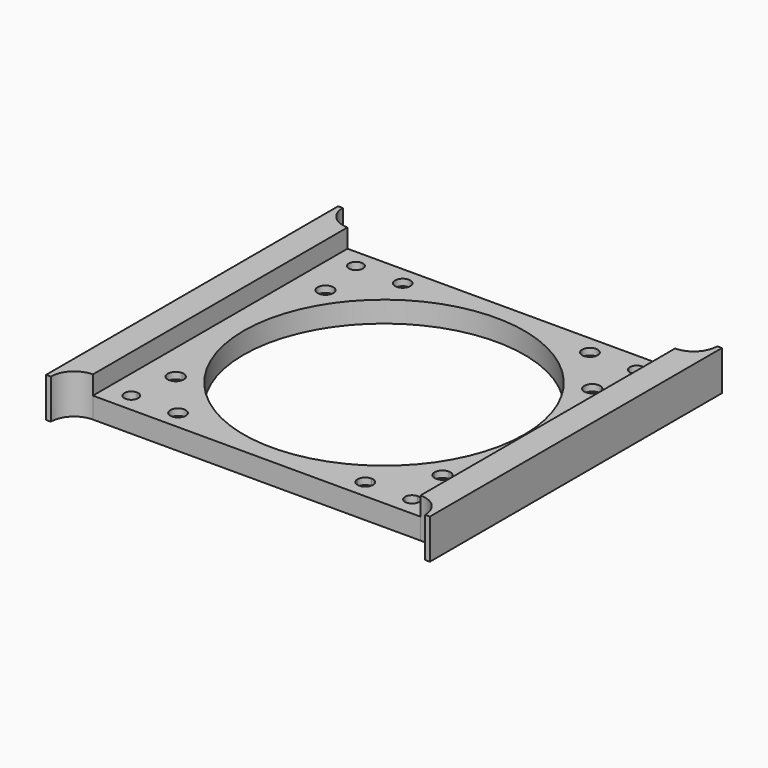
from build123d import *

# Parameters (mm, degrees)
F1_DEPTH  = 8.5
F2_W      = 70
F2_H      = 68
F2_R      = 30
F3_DEPTH  = 4
F5_DEPTH  = 25
F6_R      = 3.2
F6_R_2    = 1.7
F7_DEPTH  = 3.1
F8_R      = 1.65
F9_DEPTH  = 25
F10_R     = 3.15
F11_DEPTH = 3.1
F13_DEPTH = 25


with BuildPart() as f1:
    # F0 (on Top) → F1 (new body)
    with BuildSketch(Plane.XY):
        with BuildLine():
            Line((0, 78), (0, 39))
            Line((0, 39), (11, 39))
            ThreePointArc((11, 39), (41, 69), (71, 39))
            Line((71, 39), (82, 39))
            Line((82, 39), (82, 78))
            Line((82, 78), (81, 78))
            ThreePointArc((81, 78), (79.535534, 74.464466), (76, 73))
            Line((76, 73), (6, 73))
            ThreePointArc((6, 73), (2.464466, 74.464466), (1, 78))
            Line((1, 78), (0, 78))
        make_face()
        with BuildLine():
            Line((0, 39), (0, 0))
            Line((0, 0), (1, 0))
            ThreePointArc((1, 0), (2.464466, 3.535534), (6, 5))
            Line((6, 5), (76, 5))
            ThreePointArc((76, 5), (79.535534, 3.535534), (81, 0))
            Line((81, 0), (82, 0))
            Line((82, 0), (82, 39))
            Line((82, 39), (71, 39))
            ThreePointArc((71, 39), (41, 9), (11, 39))
            Line((11, 39), (0, 39))
        make_face()
    extrude(amount=F1_DEPTH)

    # F2 (on face) → F3 (cut)
    with BuildSketch(Plane.XY.offset(8.5)):
        with Locations((41, 39)):
            Rectangle(F2_W, F2_H)
        with Locations((41, 39)):
            Circle(F2_R, mode=Mode.SUBTRACT)
    extrude(amount=-F3_DEPTH, mode=Mode.SUBTRACT)

    # F4 (on face) → F5 (cut)
    with BuildSketch(Plane(origin=(0, 0, 0), x_dir=(1, 0, 0), z_dir=(0, 0, -1))):
        with BuildLine():
            ThreePointArc((14.2, -19), (11.297918, -17.797918), (12.5, -20.7))
            ThreePointArc((12.5, -20.7), (13.702082, -20.202082), (14.2, -19))
        make_face()
        with BuildLine():
            ThreePointArc((14.2, -59), (13.702082, -57.797918), (12.5, -57.3))
            ThreePointArc((12.5, -57.3), (11.297918, -60.202082), (14.2, -59))
        make_face()
        with BuildLine():
            ThreePointArc((71.2, -59), (70.702082, -57.797918), (69.5, -57.3))
            ThreePointArc((69.5, -57.3), (68.297918, -60.202082), (71.2, -59))
        make_face()
        with BuildLine():
            ThreePointArc((71.2, -19), (69.5, -17.3), (67.8, -19))
            ThreePointArc((67.8, -19), (68.297918, -20.202082), (69.5, -20.7))
            ThreePointArc((69.5, -20.7), (70.702082, -20.202082), (71.2, -19))
        make_face()
    extrude(amount=-F5_DEPTH, mode=Mode.SUBTRACT)

    # F6 (on face) → F7 (cut)
    with BuildSketch(Plane(origin=(0, 0, 0), x_dir=(1, 0, 0), z_dir=(0, 0, -1))):
        with Locations((12.5, -19)):
            Circle(F6_R)
        with Locations((12.5, -19)):
            Circle(F6_R_2, mode=Mode.SUBTRACT)
        with Locations((12.5, -59)):
            Circle(F6_R)
        with Locations((12.5, -59)):
            Circle(F6_R_2, mode=Mode.SUBTRACT)
        with Locations((69.5, -19)):
            Circle(F6_R)
        with Locations((69.5, -19)):
            Circle(F6_R_2, mode=Mode.SUBTRACT)
        with Locations((69.5, -59)):
            Circle(F6_R)
        with Locations((69.5, -59)):
            Circle(F6_R_2, mode=Mode.SUBTRACT)
    extrude(amount=-F7_DEPTH, mode=Mode.SUBTRACT)

    # F8 (on face) → F9 (cut)
    with BuildSketch(Plane(origin=(0, 0, 0), x_dir=(1, 0, 0), z_dir=(0, 0, -1))):
        with Locations((21, -69)):
            Circle(F8_R)
        with BuildLine():
            ThreePointArc((62.65, -69), (62.166726, -67.833274), (61, -67.35))
            Line((61, -67.35), (61, -69))
            Line((61, -69), (59.35, -69))
            ThreePointArc((59.35, -69), (61, -70.65), (62.65, -69))
        make_face()
        with BuildLine():
            Line((61, -69), (61, -67.35))
            ThreePointArc((61, -67.35), (59.833274, -67.833274), (59.35, -69))
            Line((59.35, -69), (61, -69))
        make_face()
        with BuildLine():
            ThreePointArc((62.65, -9), (61, -7.35), (59.35, -9))
            Line((59.35, -9), (61, -9))
            Line((61, -9), (61, -10.65))
            ThreePointArc((61, -10.65), (62.166726, -10.166726), (62.65, -9))
        make_face()
        with BuildLine():
            Line((61, -9), (59.35, -9))
            ThreePointArc((59.35, -9), (59.833274, -10.166726), (61, -10.65))
            Line((61, -10.65), (61, -9))
        make_face()
        with Locations((21, -9)):
            Circle(F8_R)
    extrude(amount=-F9_DEPTH, mode=Mode.SUBTRACT)

    # F10 (on face) → F11 (cut)
    with BuildSketch(Plane(origin=(0, 0, 0), x_dir=(1, 0, 0), z_dir=(0, 0, -1))):
        with Locations((21, -9)):
            Circle(F10_R)
        with Locations((61, -9)):
            Circle(F10_R)
        with Locations((61, -69)):
            Circle(F10_R)
        with Locations((21, -69)):
            Circle(F10_R)
    extrude(amount=-F11_DEPTH, mode=Mode.SUBTRACT)

    # F12 (on face) → F13 (cut)
    with BuildSketch(Plane(origin=(0, 0, 0), x_dir=(1, 0, 0), z_dir=(0, 0, -1))):
        with BuildLine():
            ThreePointArc((12.5, -9), (9.93934, -7.93934), (11, -10.5))
            Line((11, -10.5), (11, -9))
            Line((11, -9), (12.5, -9))
        make_face()
        with BuildLine():
            Line((11, -9), (11, -10.5))
            ThreePointArc((11, -10.5), (12.06066, -10.06066), (12.5, -9))
            Line((12.5, -9), (11, -9))
        make_face()
        with BuildLine():
            ThreePointArc((69.5, -9), (69.93934, -10.06066), (71, -10.5))
            Line((71, -10.5), (71, -9))
            Line((71, -9), (69.5, -9))
        make_face()
        with BuildLine():
            Line((71, -9), (71, -10.5))
            ThreePointArc((71, -10.5), (72.06066, -10.06066), (72.5, -9))
            ThreePointArc((72.5, -9), (71, -7.5), (69.5, -9))
            Line((69.5, -9), (71, -9))
        make_face()
        with BuildLine():
            ThreePointArc((71, -67.5), (69.93934, -67.93934), (69.5, -69))
            Line((69.5, -69), (71, -69))
            Line((71, -69), (71, -67.5))
        make_face()
        with BuildLine():
            Line((71, -69), (69.5, -69))
            ThreePointArc((69.5, -69), (71, -70.5), (72.5, -69))
            ThreePointArc((72.5, -69), (72.06066, -67.93934), (71, -67.5))
            Line((71, -67.5), (71, -69))
        make_face()
        with BuildLine():
            ThreePointArc((11, -67.5), (9.93934, -70.06066), (12.5, -69))
            Line((12.5, -69), (11, -69))
            Line((11, -69), (11, -67.5))
        make_face()
        with BuildLine():
            Line((11, -69), (12.5, -69))
            ThreePointArc((12.5, -69), (12.06066, -67.93934), (11, -67.5))
            Line((11, -67.5), (11, -69))
        make_face()
    extrude(amount=-F13_DEPTH, mode=Mode.SUBTRACT)


solid = f1.part
